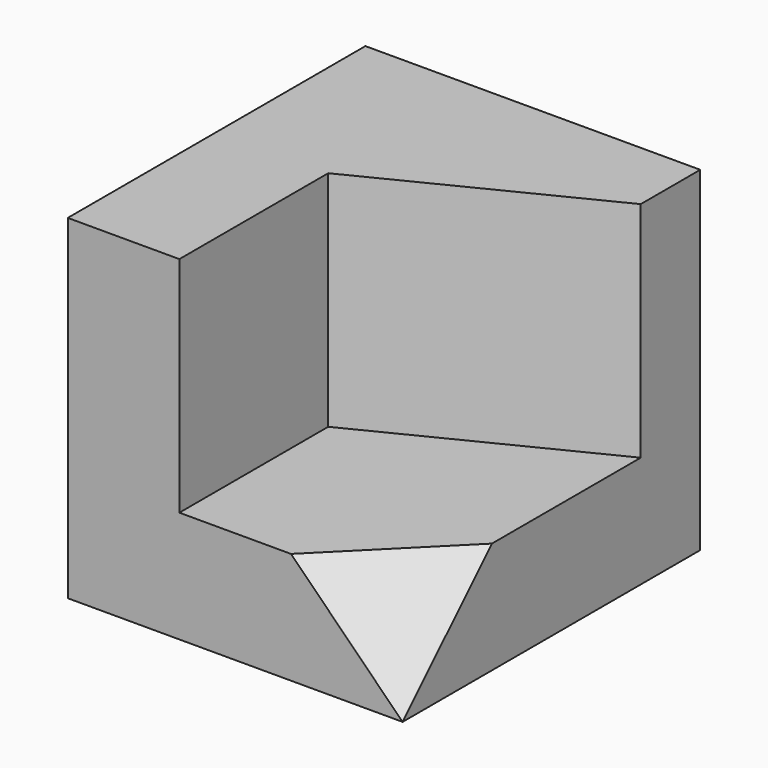
from build123d import *

# Parameters (mm, degrees)
F1_DEPTH = 3
F2_DEPTH = 9
F7_DEPTH = 5.1971524227


with BuildPart() as f1:
    # F0 (on Top) → F1 (new body)
    with BuildSketch(Plane.XY):
        Polygon((0, 10), (0, 0), (3, 0), (3, 5), (9, 8), (9, 10), align=None)
        Polygon((3, 5), (3, 0), (9, 0), (9, 8), align=None)
    extrude(amount=F1_DEPTH)

    # F0 (on Top) → F2 (join)
    with BuildSketch(Plane.XY):
        Polygon((0, 10), (0, 0), (3, 0), (3, 5), (9, 8), (9, 10), align=None)
    extrude(amount=F2_DEPTH)

    # F6 (on 3pt) → F7 (cut, through all)
    with BuildSketch(Plane(origin=(3, -3, 3), x_dir=(0.4082482905, 0.8164965809, 0.4082482905), z_dir=(0.5773502692, -0.5773502692, 0.5773502692))):
        Polygon((7.3484692283, -4.2426406871), (3.6742346142, -2.1213203436), (3.6742346142, -6.3639610307), align=None)
    extrude(amount=F7_DEPTH, mode=Mode.SUBTRACT)


solid = f1.part
